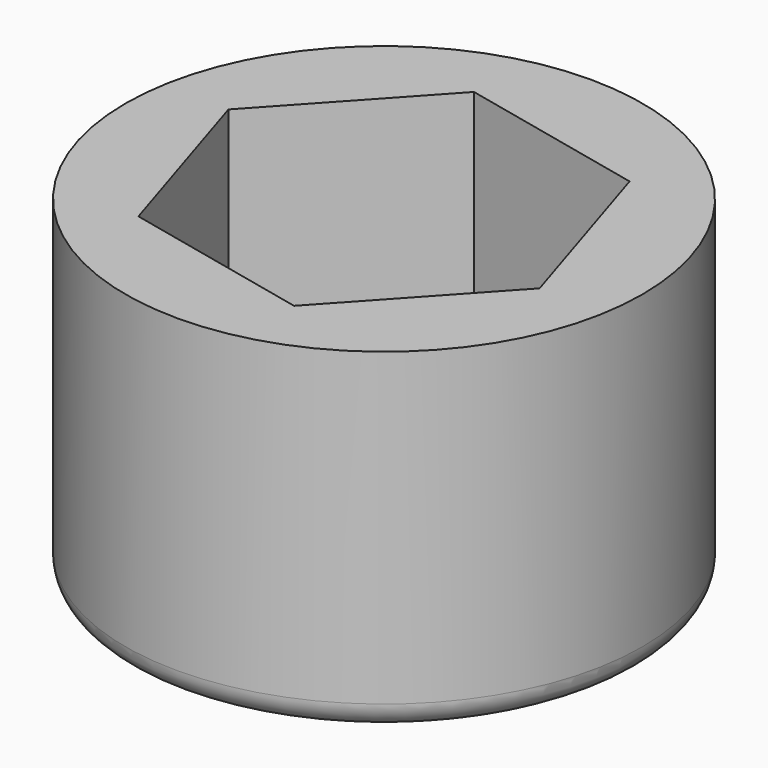
from build123d import *

# Parameters (mm, degrees)
F0_R     = 10
F0_R_2   = 5
F1_DEPTH = 5
F2_DEPTH = 8
F3_R     = 1


with BuildPart() as f1:
    # F0 (on Top) → F1 (new body)
    with BuildSketch(Plane.XY):
        Circle(F0_R)
        Polygon((-7.325631, 1.633545), (-2.248124, 7.160955), (5.077507, 5.52741), (7.325631, -1.633545), (2.248124, -7.160955), (-5.077507, -5.52741), align=None, mode=Mode.SUBTRACT)
        Polygon((5.077507, 5.52741), (-2.248124, 7.160955), (-7.325631, 1.633545), (-5.077507, -5.52741), (2.248124, -7.160955), (7.325631, -1.633545), align=None)
        Circle(F0_R_2, mode=Mode.SUBTRACT)
    extrude(amount=-F1_DEPTH)

    # F0 (on Top) → F2 (join)
    with BuildSketch(Plane.XY):
        Circle(F0_R)
        Polygon((-7.325631, 1.633545), (-2.248124, 7.160955), (5.077507, 5.52741), (7.325631, -1.633545), (2.248124, -7.160955), (-5.077507, -5.52741), align=None, mode=Mode.SUBTRACT)
    extrude(amount=F2_DEPTH)

    # F3
    f3_edges = [f1.edges().sort_by_distance(p)[0] for p in [
        (-10, 0, -5),
        (-5, 0, -5),
    ]]
    fillet(f3_edges, radius=F3_R)


solid = f1.part
